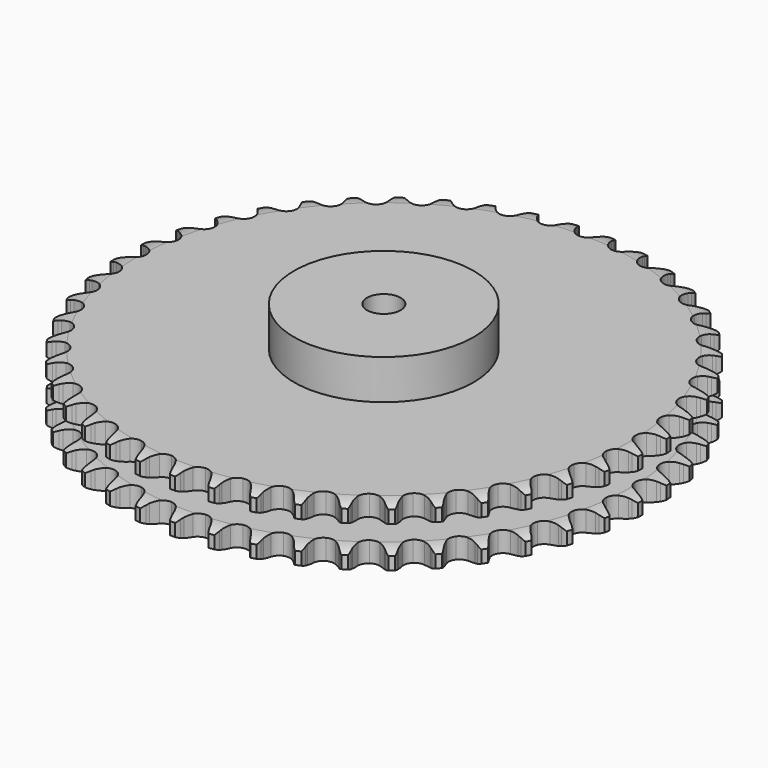
from build123d import *

# Parameters (mm, degrees)
PAD_DEPTH         = 54.6
SKETCH001_R       = 80
PAD001_DEPTH      = 90
SKETCH002_R       = 15
POCKET_DEPTH      = 0.001
POCKET_DEPTH_BACK = 90.001


with BuildPart() as part:
    # Sprocket → Pad (new body)
    with BuildSketch(Plane.XY):
        with BuildLine():
            ThreePointArc((-16.605652, 237.471882), (-13.901263, 234.479356), (-12.064666, 230.888277))
            Line((-12.064666, 230.888277), (-11.136946, 228.279735))
            ThreePointArc((-11.136946, 228.279735), (-9.673835, 224.957184), (-7.742244, 221.883263))
            ThreePointArc((-7.742244, 221.883263), (-4.33825, 219.00157), (0, 217.966719))
            ThreePointArc((0, 217.966719), (4.33825, 219.00157), (7.742244, 221.883263))
            ThreePointArc((7.742244, 221.883263), (9.673835, 224.957184), (11.136946, 228.279735))
            Line((11.136946, 228.279735), (12.064666, 230.888277))
            ThreePointArc((12.064666, 230.888277), (13.901263, 234.479356), (16.605652, 237.471882))
            ThreePointArc((16.605652, 237.471882), (18.867242, 234.1321), (20.186184, 230.320365))
            Line((20.186184, 230.320365), (20.741836, 227.608095))
            ThreePointArc((20.741836, 227.608095), (21.728299, 224.114254), (23.213285, 220.801422))
            ThreePointArc((23.213285, 220.801422), (26.183097, 217.474029), (30.335104, 215.845482))
            ThreePointArc((30.335104, 215.845482), (34.775158, 216.266494), (38.547078, 218.646398))
            Line((38.547078, 218.646398), (42.798961, 224.508169))
            ThreePointArc((42.798961, 224.508169), (43.405624, 225.753053), (44.080691, 226.962211))
            ThreePointArc((44.080691, 226.962211), (46.399196, 230.262737), (49.493745, 232.849762))
            ThreePointArc((49.493745, 232.849762), (51.268518, 229.22773), (52.044132, 225.269529))
            Line((52.044132, 225.269529), (52.216903, 222.506323))
            ThreePointArc((52.216903, 222.506323), (52.707516, 218.909195), (53.716994, 215.421933))
            ThreePointArc((53.716994, 215.421933), (56.19482, 211.713604), (60.07977, 209.523058))
            ThreePointArc((60.07977, 209.523058), (64.535207, 209.322036), (68.601638, 211.15383))
            Line((68.601638, 211.15383), (73.627942, 216.366807))
            ThreePointArc((73.627942, 216.366807), (74.401956, 217.515145), (75.238736, 218.618584))
            ThreePointArc((75.238736, 218.618584), (77.994021, 221.564316), (81.418499, 223.695486))
            ThreePointArc((81.418499, 223.695486), (82.67191, 219.861703), (82.889102, 215.834079))
            Line((82.889102, 215.834079), (82.675626, 213.073719))
            ThreePointArc((82.675626, 213.073719), (82.660842, 209.443317), (83.175162, 205.849501))
            ThreePointArc((83.175162, 205.849501), (85.112775, 201.832414), (88.655052, 199.122506))
            ThreePointArc((88.655052, 199.122506), (93.039152, 198.303364), (97.320945, 199.551393))
            Line((97.320945, 199.551393), (103.02384, 204.014111))
            ThreePointArc((103.02384, 204.014111), (103.950139, 205.043551), (104.932344, 206.019795))
            ThreePointArc((104.932344, 206.019795), (108.070782, 208.553397), (111.758534, 210.187232))
            ThreePointArc((111.758534, 210.187232), (112.466188, 206.216318), (112.120728, 202.197663))
            Line((112.120728, 202.197663), (111.525163, 199.493877))
            ThreePointArc((111.525163, 199.493877), (111.005268, 195.900863), (111.01442, 192.270443))
            ThreePointArc((111.01442, 192.270443), (112.374106, 188.022786), (115.504763, 184.846261))
            ThreePointArc((115.504763, 184.846261), (119.732195, 183.424942), (124.14601, 184.064915))
            Line((124.14601, 184.064915), (130.414495, 187.690512))
            ThreePointArc((130.414495, 187.690512), (131.47505, 188.581019), (132.583563, 189.411065))
            ThreePointArc((132.583563, 189.411065), (136.044067, 191.483224), (139.923316, 192.587923))
            ThreePointArc((139.923316, 192.587923), (140.071439, 188.557167), (139.170053, 184.6257))
            Line((139.170053, 184.6257), (138.203989, 182.031113))
            ThreePointArc((138.203989, 182.031113), (137.189103, 178.545422), (136.692909, 174.949059))
            ThreePointArc((136.692909, 174.949059), (137.448203, 170.553509), (140.106306, 166.972194))
            ThreePointArc((140.106306, 166.972194), (144.094788, 164.976362), (148.554715, 164.995822))
            Line((148.554715, 164.995822), (155.266781, 167.713731))
            ThreePointArc((155.266781, 167.713731), (156.440949, 168.447971), (157.654194, 169.115663))
            ThreePointArc((157.654194, 169.115663), (161.36941, 170.686048), (165.364651, 171.240109))
            ThreePointArc((165.364651, 171.240109), (164.950359, 167.227965), (163.510591, 163.460207))
            Line((163.510591, 163.460207), (162.192832, 161.025321))
            ThreePointArc((162.192832, 161.025321), (160.702708, 157.714798), (159.710827, 154.222491))
            ThreePointArc((159.710827, 154.222491), (159.847027, 149.764601), (161.980839, 145.848203))
            ThreePointArc((161.980839, 145.848203), (165.652739, 143.316705), (170.071971, 142.715274))
            Line((170.071971, 142.715274), (177.096975, 144.472593))
            ThreePointArc((177.096975, 144.472593), (178.361903, 145.036275), (179.656266, 145.528618))
            ThreePointArc((179.656266, 145.528618), (183.55388, 146.566662), (187.58735, 146.5593))
            ThreePointArc((187.58735, 146.5593), (186.618708, 142.643861), (184.668581, 139.113148))
            Line((184.668581, 139.113148), (183.024776, 136.885354))
            ThreePointArc((183.024776, 136.885354), (181.088418, 133.814434), (179.620154, 130.494157))
            ThreePointArc((179.620154, 130.494157), (179.134611, 126.060696), (180.7026, 121.885442))
            ThreePointArc((180.7026, 121.885442), (183.986448, 118.867551), (188.278969, 117.656935))
            Line((188.278969, 117.656935), (195.480178, 118.419461))
            ThreePointArc((195.480178, 118.419461), (196.811245, 118.801613), (198.161532, 119.109024))
            ThreePointArc((198.161532, 119.109024), (202.165683, 119.594522), (206.158875, 119.025882))
            ThreePointArc((206.158875, 119.025882), (204.654736, 115.283356), (202.232207, 112.058409))
            Line((202.232207, 112.058409), (200.294351, 110.08107))
            ThreePointArc((200.294351, 110.08107), (197.949448, 107.309524), (196.033379, 104.225903))
            ThreePointArc((196.033379, 104.225903), (194.935543, 99.903163), (195.907189, 95.550321))
            ThreePointArc((195.907189, 95.550321), (198.739071, 92.104776), (202.821332, 90.308538))
            Line((202.821332, 90.308538), (210.058582, 90.061428))
            ThreePointArc((210.058582, 90.061428), (211.42988, 90.254612), (212.80981, 90.371108))
            ThreePointArc((212.80981, 90.371108), (216.842561, 90.294612), (220.717752, 89.17576))
            ThreePointArc((220.717752, 89.17576), (218.707393, 85.678992), (215.859613, 82.822581))
            Line((215.859613, 82.822581), (213.665424, 81.134183))
            ThreePointArc((213.665424, 81.134183), (210.957616, 78.715957), (208.631038, 75.92901))
            ThreePointArc((208.631038, 75.92901), (206.942277, 71.801128), (207.298668, 67.35542))
            ThreePointArc((207.298668, 67.35542), (209.623463, 63.549286), (213.416008, 61.202388))
            Line((213.416008, 61.202388), (220.548435, 59.950452))
            ThreePointArc((220.548435, 59.950452), (221.933274, 59.950908), (223.315987, 59.874222))
            ThreePointArc((223.315987, 59.874222), (227.298846, 59.237219), (230.980609, 57.589934))
            ThreePointArc((230.980609, 57.589934), (228.503158, 54.406984), (225.285558, 51.974706))
            Line((225.285558, 51.974706), (222.877742, 50.608111))
            ThreePointArc((222.877742, 50.608111), (219.859735, 48.590273), (217.167931, 46.154246))
            ThreePointArc((217.167931, 46.154246), (214.921114, 42.301566), (214.655315, 37.849524))
            ThreePointArc((214.655315, 37.849524), (216.427773, 33.756881), (219.856784, 30.905003))
            Line((219.856784, 30.905003), (226.745563, 28.672609))
            ThreePointArc((226.745563, 28.672609), (228.116988, 28.480328), (229.475573, 28.211952))
            ThreePointArc((229.475573, 28.211952), (233.331016, 27.026841), (236.747692, 24.883185))
            ThreePointArc((236.747692, 24.883185), (233.85137, 22.076006), (230.326575, 20.115202))
            Line((230.326575, 20.115202), (227.751999, 19.09701))
            ThreePointArc((227.751999, 19.09701), (224.482534, 17.518835), (221.477897, 15.481141))
            ThreePointArc((221.477897, 15.481141), (218.716757, 11.978652), (217.83394, 7.606929))
            ThreePointArc((217.83394, 7.606929), (219.019563, 3.307437), (222.018298, 0.006087))
            Line((222.018298, 0.006087), (228.529347, -3.163314))
            ThreePointArc((228.529347, -3.163314), (229.860665, -3.544589), (231.168677, -3.999432))
            ThreePointArc((231.168677, -3.999432), (234.821664, -5.709583), (237.90675, -8.307887))
            ThreePointArc((237.90675, -8.307887), (234.647931, -10.684656), (230.884548, -12.135822))
            Line((230.884548, -12.135822), (228.193322, -12.785793))
            ThreePointArc((228.193322, -12.785793), (224.736036, -13.893588), (221.477048, -15.493286))
            ThreePointArc((221.477048, -15.493286), (218.255327, -18.577413), (216.772675, -22.783726))
            ThreePointArc((216.772675, -22.783726), (217.348386, -27.206382), (219.858478, -30.892947))
            Line((219.858478, -30.892947), (225.865067, -34.937667))
            ThreePointArc((225.865067, -34.937667), (227.130365, -35.500515), (228.362346, -36.132972))
            ThreePointArc((228.362346, -36.132972), (231.741775, -38.334877), (234.435223, -41.337255))
            ThreePointArc((234.435223, -41.337255), (230.877336, -43.237354), (226.948615, -44.150635))
            Line((226.948615, -44.150635), (224.193122, -44.419735))
            ThreePointArc((224.193122, -44.419735), (220.615307, -45.035588), (217.1654, -46.166154))
            ThreePointArc((217.1654, -46.166154), (213.545805, -48.771889), (211.492176, -52.730922))
            ThreePointArc((211.492176, -52.730922), (211.446769, -57.19066), (213.419364, -61.190686))
            Line((213.419364, -61.190686), (218.80458, -66.031997))
            ThreePointArc((218.80458, -66.031997), (219.979231, -66.765463), (221.111201, -67.563224))
            ThreePointArc((221.111201, -67.563224), (224.151297, -70.214026), (226.400682, -73.562041))
            ThreePointArc((226.400682, -73.562041), (222.612977, -74.948486), (218.595386, -75.306107))
            Line((218.595386, -75.306107), (215.829258, -75.189097))
            ThreePointArc((215.829258, -75.189097), (212.200551, -75.301021), (208.626875, -75.94045))
            ThreePointArc((208.626875, -75.94045), (204.679857, -78.017077), (202.095223, -81.65177))
            ThreePointArc((202.095223, -81.65177), (201.429582, -86.061787), (202.826283, -90.297417))
            Line((202.826283, -90.297417), (207.485311, -95.84109))
            ThreePointArc((207.485311, -95.84109), (208.546452, -96.730898), (209.556379, -97.678435))
            ThreePointArc((209.556379, -97.678435), (212.197968, -100.726539), (213.959508, -104.355025))
            ThreePointArc((213.959508, -104.355025), (210.01571, -105.200831), (205.987446, -104.995831))
            Line((205.987446, -104.995831), (203.264523, -104.494989))
            ThreePointArc((203.264523, -104.494989), (199.655554, -104.100805), (196.027664, -104.236652))
            ThreePointArc((196.027664, -104.236652), (191.830048, -105.74375), (188.764716, -108.98336))
            ThreePointArc((188.764716, -108.98336), (187.491798, -113.25782), (188.285421, -117.646611))
            Line((188.285421, -117.646611), (192.127576, -123.784746))
            ThreePointArc((192.127576, -123.784746), (193.054553, -124.813576), (193.92278, -125.892446))
            ThreePointArc((193.92278, -125.892446), (196.114447, -129.278525), (197.353857, -133.116857))
            ThreePointArc((197.353857, -133.116857), (193.330726, -133.405561), (189.370195, -132.64193))
            Line((189.370195, -132.64193), (186.743475, -131.767005))
            ThreePointArc((186.743475, -131.767005), (183.224488, -130.874386), (179.612998, -130.504006))
            ThreePointArc((179.612998, -130.504006), (175.246485, -131.412242), (171.760119, -134.193712))
            ThreePointArc((171.760119, -134.193712), (169.904699, -138.249417), (170.079796, -142.705948))
            Line((170.079796, -142.705948), (173.030297, -149.319072))
            ThreePointArc((173.030297, -149.319072), (173.805067, -150.4669), (174.514695, -151.656104))
            ThreePointArc((174.514695, -151.656104), (176.213782, -155.314251), (176.906937, -159.287721))
            ThreePointArc((176.906937, -159.287721), (172.882779, -159.013704), (169.067069, -157.706306))
            Line((169.067069, -157.706306), (166.587677, -156.474326))
            ThreePointArc((166.587677, -156.474326), (163.227166, -155.100645), (159.70237, -154.231248))
            ThreePointArc((159.70237, -154.231248), (155.251949, -154.522944), (151.412406, -156.792136))
            ThreePointArc((151.412406, -156.792136), (149.010598, -160.550147), (148.563762, -164.987676))
            Line((148.563762, -164.987676), (150.56518, -171.947072))
            ThreePointArc((150.56518, -171.947072), (151.172663, -173.191556), (151.70988, -174.467949))
            ThreePointArc((151.70988, -174.467949), (152.883315, -178.326962), (153.016725, -182.358231))
            ThreePointArc((153.016725, -182.358231), (149.069865, -181.526826), (145.473244, -179.701107))
            Line((145.473244, -179.701107), (143.18944, -178.136052))
            ThreePointArc((143.18944, -178.136052), (140.052812, -176.308047), (136.683316, -174.956554))
            ThreePointArc((136.683316, -174.956554), (132.235611, -174.626032), (128.117623, -176.33878))
            ThreePointArc((128.117623, -176.33878), (125.216175, -179.725951), (124.156103, -184.058107))
            Line((124.156103, -184.058107), (125.169483, -191.228318))
            ThreePointArc((125.169483, -191.228318), (125.597855, -192.545236), (125.952204, -193.883973))
            ThreePointArc((125.952204, -193.883973), (126.577149, -197.868741), (126.148216, -201.879345))
            ThreePointArc((126.148216, -201.879345), (122.355476, -200.506735), (119.047948, -198.198231))
            Line((119.047948, -198.198231), (117.004184, -196.330563))
            ThreePointArc((117.004184, -196.330563), (114.15249, -194.083814), (111.003878, -192.27653))
            ThreePointArc((111.003878, -192.27653), (106.645457, -191.330224), (102.329176, -192.45319))
            ThreePointArc((102.329176, -192.45319), (98.984562, -195.403594), (97.331887, -199.546056))
            Line((97.331887, -199.546056), (97.337504, -206.787522))
            ThreePointArc((97.337504, -206.787522), (97.578428, -208.151242), (97.743012, -209.526266))
            ThreePointArc((97.743012, -209.526266), (97.807303, -213.55923), (96.824375, -217.471108))
            ThreePointArc((96.824375, -217.471108), (93.259577, -215.584008), (90.30552, -212.837651))
            Line((90.30552, -212.837651), (88.541574, -210.703722))
            ThreePointArc((88.541574, -210.703722), (86.03032, -208.081959), (83.163875, -205.854062))
            ThreePointArc((83.163875, -205.854062), (78.97957, -204.31039), (74.549008, -204.821717))
            ThreePointArc((74.549008, -204.821717), (70.826327, -207.277928), (68.613216, -211.150068))
            Line((68.613216, -211.150068), (67.610961, -218.321842))
            ThreePointArc((67.610961, -218.321842), (67.659747, -219.705821), (67.631364, -221.090369))
            ThreePointArc((67.631364, -221.090369), (67.133749, -225.093032), (65.615959, -228.830043))
            ThreePointArc((65.615959, -228.830043), (62.348486, -226.465184), (59.805397, -223.334429))
            Line((59.805397, -223.334429), (58.355603, -220.975774))
            ThreePointArc((58.355603, -220.975774), (56.233667, -218.030026), (53.705181, -215.424878))
            ThreePointArc((53.705181, -215.424878), (49.776435, -213.313887), (45.317829, -213.203623))
            ThreePointArc((45.317829, -213.203623), (41.289538, -215.117833), (38.559067, -218.644284))
            Line((38.559067, -218.644284), (36.568448, -225.606776))
            ThreePointArc((36.568448, -225.606776), (36.424147, -226.984076), (36.203348, -228.351199))
            ThreePointArc((36.203348, -228.351199), (35.153512, -232.245654), (33.130402, -235.735061))
            ThreePointArc((33.130402, -235.735061), (30.223853, -232.938473), (28.141229, -229.484256))
            Line((28.141229, -229.484256), (27.033806, -226.946783))
            ThreePointArc((27.033806, -226.946783), (25.34249, -223.734387), (23.201178, -220.802695))
            ThreePointArc((23.201178, -220.802695), (19.60446, -218.165472), (15.20459, -217.435763))
            ThreePointArc((15.20459, -217.435763), (10.949095, -218.770714), (7.75441, -221.882838))
            Line((7.75441, -221.882838), (4.814172, -228.500531))
            ThreePointArc((4.814172, -228.500531), (4.479592, -229.844344), (4.070675, -231.167433))
            ThreePointArc((4.070675, -231.167433), (2.489053, -234.877879), (0, -238.051764))
            ThreePointArc((0, -238.051764), (-2.489053, -234.877879), (-4.070675, -231.167433))
            Line((-4.070675, -231.167433), (-4.814172, -228.500531))
            ThreePointArc((-4.814172, -228.500531), (-6.04195, -225.084012), (-7.75441, -221.882838))
            ThreePointArc((-7.75441, -221.882838), (-10.949095, -218.770714), (-15.20459, -217.435763))
            ThreePointArc((-15.20459, -217.435763), (-19.60446, -218.165472), (-23.201178, -220.802695))
            Line((-23.201178, -220.802695), (-27.033806, -226.946783))
            ThreePointArc((-27.033806, -226.946783), (-27.552153, -228.230954), (-28.141229, -229.484256))
            ThreePointArc((-28.141229, -229.484256), (-30.223853, -232.938473), (-33.130402, -235.735061))
            ThreePointArc((-33.130402, -235.735061), (-35.153512, -232.245654), (-36.203348, -228.351199))
            Line((-36.203348, -228.351199), (-36.568448, -225.606776))
            ThreePointArc((-36.568448, -225.606776), (-37.30879, -222.052633), (-38.559067, -218.644284))
            ThreePointArc((-38.559067, -218.644284), (-41.289538, -215.117833), (-45.317829, -213.203623))
            ThreePointArc((-45.317829, -213.203623), (-49.776435, -213.313887), (-53.705181, -215.424878))
            Line((-53.705181, -215.424878), (-58.355603, -220.975774))
            ThreePointArc((-58.355603, -220.975774), (-59.047627, -222.175307), (-59.805397, -223.334429))
            ThreePointArc((-59.805397, -223.334429), (-62.348486, -226.465184), (-65.615959, -228.830043))
            ThreePointArc((-65.615959, -228.830043), (-67.133749, -225.093032), (-67.631364, -221.090369))
            Line((-67.631364, -221.090369), (-67.610961, -218.321842))
            ThreePointArc((-67.610961, -218.321842), (-67.849457, -214.699252), (-68.613216, -211.150068))
            ThreePointArc((-68.613216, -211.150068), (-70.826327, -207.277928), (-74.549008, -204.821717))
            ThreePointArc((-74.549008, -204.821717), (-78.97957, -204.31039), (-83.163875, -205.854062))
            Line((-83.163875, -205.854062), (-88.541574, -210.703722))
            ThreePointArc((-88.541574, -210.703722), (-89.393806, -211.795271), (-90.30552, -212.837651))
            ThreePointArc((-90.30552, -212.837651), (-93.259577, -215.584008), (-96.824375, -217.471108))
            ThreePointArc((-96.824375, -217.471108), (-97.807303, -213.55923), (-97.743012, -209.526266))
            Line((-97.743012, -209.526266), (-97.337504, -206.787522))
            ThreePointArc((-97.337504, -206.787522), (-97.069511, -203.166995), (-97.331887, -199.546056))
            ThreePointArc((-97.331887, -199.546056), (-98.984562, -195.403594), (-102.329176, -192.45319))
            ThreePointArc((-102.329176, -192.45319), (-106.645457, -191.330224), (-111.003878, -192.27653))
            Line((-111.003878, -192.27653), (-117.004184, -196.330563))
            ThreePointArc((-117.004184, -196.330563), (-118.000036, -197.292881), (-119.047948, -198.198231))
            ThreePointArc((-119.047948, -198.198231), (-122.355476, -200.506735), (-126.148216, -201.879345))
            ThreePointArc((-126.148216, -201.879345), (-126.577149, -197.868741), (-125.952204, -193.883973))
            Line((-125.952204, -193.883973), (-125.169483, -191.228318))
            ThreePointArc((-125.169483, -191.228318), (-124.400218, -187.680323), (-124.156103, -184.058107))
            ThreePointArc((-124.156103, -184.058107), (-125.216175, -179.725951), (-128.117623, -176.33878))
            ThreePointArc((-128.117623, -176.33878), (-132.235611, -174.626032), (-136.683316, -174.956554))
            Line((-136.683316, -174.956554), (-143.18944, -178.136052))
            ThreePointArc((-143.18944, -178.136052), (-144.30953, -178.950409), (-145.473244, -179.701107))
            ThreePointArc((-145.473244, -179.701107), (-149.069865, -181.526826), (-153.016725, -182.358231))
            ThreePointArc((-153.016725, -182.358231), (-152.883315, -178.326962), (-151.70988, -174.467949))
            Line((-151.70988, -174.467949), (-150.56518, -171.947072))
            ThreePointArc((-150.56518, -171.947072), (-149.309616, -168.540666), (-148.563762, -164.987676))
            ThreePointArc((-148.563762, -164.987676), (-149.010598, -160.550147), (-151.412406, -156.792136))
            ThreePointArc((-151.412406, -156.792136), (-155.251949, -154.522944), (-159.70237, -154.231248))
            Line((-159.70237, -154.231248), (-166.587677, -156.474326))
            ThreePointArc((-166.587677, -156.474326), (-167.810203, -157.124871), (-169.067069, -157.706306))
            ThreePointArc((-169.067069, -157.706306), (-172.882779, -159.013704), (-176.906937, -159.287721))
            ThreePointArc((-176.906937, -159.287721), (-176.213782, -155.314251), (-174.514695, -151.656104))
            Line((-174.514695, -151.656104), (-173.030297, -149.319072))
            ThreePointArc((-173.030297, -149.319072), (-171.312873, -146.120558), (-170.079796, -142.705948))
            ThreePointArc((-170.079796, -142.705948), (-169.904699, -138.249417), (-171.760119, -134.193712))
            ThreePointArc((-171.760119, -134.193712), (-175.246485, -131.412242), (-179.612998, -130.504006))
            Line((-179.612998, -130.504006), (-186.743475, -131.767005))
            ThreePointArc((-186.743475, -131.767005), (-188.044641, -132.241076), (-189.370195, -132.64193))
            ThreePointArc((-189.370195, -132.64193), (-193.330726, -133.405561), (-197.353857, -133.116857))
            ThreePointArc((-197.353857, -133.116857), (-196.114447, -129.278525), (-193.92278, -125.892446))
            Line((-193.92278, -125.892446), (-192.127576, -123.784746))
            ThreePointArc((-192.127576, -123.784746), (-189.981719, -120.856379), (-188.285421, -117.646611))
            ThreePointArc((-188.285421, -117.646611), (-187.491798, -113.25782), (-188.764716, -108.98336))
            ThreePointArc((-188.764716, -108.98336), (-191.830048, -105.74375), (-196.027664, -104.236652))
            Line((-196.027664, -104.236652), (-203.264523, -104.494989))
            ThreePointArc((-203.264523, -104.494989), (-204.619004, -104.783359), (-205.987446, -104.995831))
            ThreePointArc((-205.987446, -104.995831), (-210.01571, -105.200831), (-213.959508, -104.355025))
            ThreePointArc((-213.959508, -104.355025), (-212.197968, -100.726539), (-209.556379, -97.678435))
            Line((-209.556379, -97.678435), (-207.485311, -95.84109))
            ThreePointArc((-207.485311, -95.84109), (-204.952787, -93.239868), (-202.826283, -90.297417))
            ThreePointArc((-202.826283, -90.297417), (-201.429582, -86.061787), (-202.095223, -81.65177))
            ThreePointArc((-202.095223, -81.65177), (-204.679857, -78.017077), (-208.626875, -75.94045))
            Line((-208.626875, -75.94045), (-215.829258, -75.189097))
            ThreePointArc((-215.829258, -75.189097), (-217.210691, -75.286154), (-218.595386, -75.306107))
            ThreePointArc((-218.595386, -75.306107), (-222.612977, -74.948486), (-226.400682, -73.562041))
            ThreePointArc((-226.400682, -73.562041), (-224.151297, -70.214026), (-221.111201, -67.563224))
            Line((-221.111201, -67.563224), (-218.80458, -66.031997))
            ThreePointArc((-218.80458, -66.031997), (-215.934682, -63.808549), (-213.419364, -61.190686))
            ThreePointArc((-213.419364, -61.190686), (-211.446769, -57.19066), (-211.492176, -52.730922))
            ThreePointArc((-211.492176, -52.730922), (-213.545805, -48.771889), (-217.1654, -46.166154))
            Line((-217.1654, -46.166154), (-224.193122, -44.419735))
            ThreePointArc((-224.193122, -44.419735), (-225.574619, -44.323588), (-226.948615, -44.150635))
            ThreePointArc((-226.948615, -44.150635), (-230.877336, -43.237354), (-234.435223, -41.337255))
            ThreePointArc((-234.435223, -41.337255), (-231.741775, -38.334877), (-228.362346, -36.132972))
            Line((-228.362346, -36.132972), (-225.865067, -34.937667))
            ThreePointArc((-225.865067, -34.937667), (-222.713654, -33.13527), (-219.858478, -30.892947))
            ThreePointArc((-219.858478, -30.892947), (-217.348386, -27.206382), (-216.772675, -22.783726))
            ThreePointArc((-216.772675, -22.783726), (-218.255327, -18.577413), (-221.477048, -15.493286))
            Line((-221.477048, -15.493286), (-228.193322, -12.785793))
            ThreePointArc((-228.193322, -12.785793), (-229.547994, -12.498315), (-230.884548, -12.135822))
            ThreePointArc((-230.884548, -12.135822), (-234.647931, -10.684656), (-237.90675, -8.307887))
            ThreePointArc((-237.90675, -8.307887), (-234.821664, -5.709583), (-231.168677, -3.999432))
            Line((-231.168677, -3.999432), (-228.529347, -3.163314))
            ThreePointArc((-228.529347, -3.163314), (-225.157758, -1.81705), (-222.018298, 0.006087))
            ThreePointArc((-222.018298, 0.006087), (-219.019563, 3.307437), (-217.83394, 7.606929))
            ThreePointArc((-217.83394, 7.606929), (-218.716757, 11.978652), (-221.477897, 15.481141))
            Line((-221.477897, 15.481141), (-227.751999, 19.09701))
            ThreePointArc((-227.751999, 19.09701), (-229.053478, 19.570224), (-230.326575, 20.115202))
            ThreePointArc((-230.326575, 20.115202), (-233.85137, 22.076006), (-236.747692, 24.883185))
            ThreePointArc((-236.747692, 24.883185), (-233.331016, 27.026841), (-229.475573, 28.211952))
            Line((-229.475573, 28.211952), (-226.745563, 28.672609))
            ThreePointArc((-226.745563, 28.672609), (-223.219423, 29.536537), (-219.856784, 30.905003))
            ThreePointArc((-219.856784, 30.905003), (-216.427773, 33.756881), (-214.655315, 37.849524))
            ThreePointArc((-214.655315, 37.849524), (-214.921114, 42.301566), (-217.167931, 46.154246))
            Line((-217.167931, 46.154246), (-222.877742, 50.608111))
            ThreePointArc((-222.877742, 50.608111), (-224.100696, 51.257851), (-225.285558, 51.974706))
            ThreePointArc((-225.285558, 51.974706), (-228.503158, 54.406984), (-230.980609, 57.589934))
            ThreePointArc((-230.980609, 57.589934), (-227.298846, 59.237219), (-223.315987, 59.874222))
            Line((-223.315987, 59.874222), (-220.548435, 59.950452))
            ThreePointArc((-220.548435, 59.950452), (-216.936375, 60.315229), (-213.416008, 61.202388))
            ThreePointArc((-213.416008, 61.202388), (-209.623463, 63.549286), (-207.298668, 67.35542))
            ThreePointArc((-207.298668, 67.35542), (-206.942277, 71.801128), (-208.631038, 75.92901))
            Line((-208.631038, 75.92901), (-213.665424, 81.134183))
            ThreePointArc((-213.665424, 81.134183), (-214.78605, 81.947801), (-215.859613, 82.822581))
            ThreePointArc((-215.859613, 82.822581), (-218.707393, 85.678992), (-220.717752, 89.17576))
            ThreePointArc((-220.717752, 89.17576), (-216.842561, 90.294612), (-212.80981, 90.371108))
            Line((-212.80981, 90.371108), (-210.058582, 90.061428))
            ThreePointArc((-210.058582, 90.061428), (-206.430908, 89.919953), (-202.821332, 90.308538))
            ThreePointArc((-202.821332, 90.308538), (-198.739071, 92.104776), (-195.907189, 95.550321))
            ThreePointArc((-195.907189, 95.550321), (-194.935543, 99.903163), (-196.033379, 104.225903))
            Line((-196.033379, 104.225903), (-200.294351, 110.08107))
            ThreePointArc((-200.294351, 110.08107), (-201.290837, 111.042732), (-202.232207, 112.058409))
            ThreePointArc((-202.232207, 112.058409), (-204.654736, 115.283356), (-206.158875, 119.025882))
            ThreePointArc((-206.158875, 119.025882), (-202.165683, 119.594522), (-198.161532, 119.109024))
            Line((-198.161532, 119.109024), (-195.480178, 118.419461))
            ThreePointArc((-195.480178, 118.419461), (-191.907498, 117.774488), (-188.278969, 117.656935))
            ThreePointArc((-188.278969, 117.656935), (-183.986448, 118.867551), (-180.7026, 121.885442))
            ThreePointArc((-180.7026, 121.885442), (-179.134611, 126.060696), (-179.620154, 130.494157))
            Line((-179.620154, 130.494157), (-183.024776, 136.885354))
            ThreePointArc((-183.024776, 136.885354), (-183.877727, 137.976341), (-184.668581, 139.113148))
            ThreePointArc((-184.668581, 139.113148), (-186.618708, 142.643861), (-187.58735, 146.5593))
            ThreePointArc((-187.58735, 146.5593), (-183.55388, 146.566662), (-179.656266, 145.528618))
            Line((-179.656266, 145.528618), (-177.096975, 144.472593))
            ThreePointArc((-177.096975, 144.472593), (-173.648826, 143.336677), (-170.071971, 142.715274))
            ThreePointArc((-170.071971, 142.715274), (-165.652739, 143.316705), (-161.980839, 145.848203))
            ThreePointArc((-161.980839, 145.848203), (-159.847027, 149.764601), (-159.710827, 154.222491))
            Line((-159.710827, 154.222491), (-162.192832, 161.025321))
            ThreePointArc((-162.192832, 161.025321), (-162.885646, 162.224399), (-163.510591, 163.460207))
            ThreePointArc((-163.510591, 163.460207), (-164.950359, 167.227965), (-165.364651, 171.240109))
            ThreePointArc((-165.364651, 171.240109), (-161.36941, 170.686048), (-157.654194, 169.115663))
            Line((-157.654194, 169.115663), (-155.266781, 167.713731))
            ThreePointArc((-155.266781, 167.713731), (-152.010278, 166.108979), (-148.554715, 164.995822))
            ThreePointArc((-148.554715, 164.995822), (-144.094788, 164.976362), (-140.106306, 166.972194))
            ThreePointArc((-140.106306, 166.972194), (-137.448203, 170.553509), (-136.692909, 174.949059))
            Line((-136.692909, 174.949059), (-138.203989, 182.031113))
            ThreePointArc((-138.203989, 182.031113), (-138.723182, 183.314942), (-139.170053, 184.6257))
            ThreePointArc((-139.170053, 184.6257), (-140.071439, 188.557167), (-139.923316, 192.587923))
            ThreePointArc((-139.923316, 192.587923), (-136.044067, 191.483224), (-132.583563, 189.411065))
            Line((-132.583563, 189.411065), (-130.414495, 187.690512))
            ThreePointArc((-130.414495, 187.690512), (-127.413023, 185.64816), (-124.14601, 184.064915))
            ThreePointArc((-124.14601, 184.064915), (-119.732195, 183.424942), (-115.504763, 184.846261))
            ThreePointArc((-115.504763, 184.846261), (-112.374106, 188.022786), (-111.01442, 192.270443))
            Line((-111.01442, 192.270443), (-111.525163, 199.493877))
            ThreePointArc((-111.525163, 199.493877), (-111.860628, 200.837469), (-112.120728, 202.197663))
            ThreePointArc((-112.120728, 202.197663), (-112.466188, 206.216318), (-111.758534, 210.187232))
            ThreePointArc((-111.758534, 210.187232), (-108.070782, 208.553397), (-104.932344, 206.019795))
            Line((-104.932344, 206.019795), (-103.02384, 204.014111))
            ThreePointArc((-103.02384, 204.014111), (-100.335818, 201.57391), (-97.320945, 199.551393))
            ThreePointArc((-97.320945, 199.551393), (-93.039152, 198.303364), (-88.655052, 199.122506))
            ThreePointArc((-88.655052, 199.122506), (-85.112775, 201.832414), (-83.175162, 205.849501))
            Line((-83.175162, 205.849501), (-82.675626, 213.073719))
            ThreePointArc((-82.675626, 213.073719), (-82.820835, 214.450923), (-82.889102, 215.834079))
            ThreePointArc((-82.889102, 215.834079), (-82.67191, 219.861703), (-81.418499, 223.695486))
            ThreePointArc((-81.418499, 223.695486), (-77.994021, 221.564316), (-75.238736, 218.618584))
            Line((-75.238736, 218.618584), (-73.627942, 216.366807))
            ThreePointArc((-73.627942, 216.366807), (-71.305691, 213.576254), (-68.601638, 211.15383))
            ThreePointArc((-68.601638, 211.15383), (-64.535207, 209.322036), (-60.07977, 209.523058))
            ThreePointArc((-60.07977, 209.523058), (-56.19482, 211.713604), (-53.716994, 215.421933))
            Line((-53.716994, 215.421933), (-52.216903, 222.506323))
            ThreePointArc((-52.216903, 222.506323), (-52.169028, 223.890334), (-52.044132, 225.269529))
            ThreePointArc((-52.044132, 225.269529), (-51.268518, 229.22773), (-49.493745, 232.849762))
            ThreePointArc((-49.493745, 232.849762), (-46.399196, 230.262737), (-44.080691, 226.962211))
            Line((-44.080691, 226.962211), (-42.798961, 224.508169))
            ThreePointArc((-42.798961, 224.508169), (-40.887679, 221.421579), (-38.547078, 218.646398))
            ThreePointArc((-38.547078, 218.646398), (-34.775158, 216.266494), (-30.335104, 215.845482))
            ThreePointArc((-30.335104, 215.845482), (-26.183097, 217.474029), (-23.213285, 220.801422))
            Line((-23.213285, 220.801422), (-20.741836, 227.608095))
            ThreePointArc((-20.741836, 227.608095), (-20.501811, 228.971974), (-20.186184, 230.320365))
            ThreePointArc((-20.186184, 230.320365), (-18.867242, 234.1321), (-16.605652, 237.471882))
        make_face()
    extrude(amount=PAD_DEPTH)

    # Sketch → Groove (revolve, cut)
    with BuildSketch(Plane.XZ):
        with BuildLine():
            ThreePointArc((220.598368, 0), (228.081683, 0.887302), (235.15, 3.5))
            Line((235.15, 3.5), (235.15, 14.7))
            ThreePointArc((235.15, 14.7), (228.081683, 17.312698), (220.598368, 18.2))
            Line((80, 18.2), (220.598368, 18.2))
            Line((80, 36.4), (80, 18.2))
            Line((220.598368, 36.4), (80, 36.4))
            ThreePointArc((220.598368, 36.4), (228.081683, 37.287302), (235.15, 39.9))
            Line((235.15, 39.9), (235.15, 51.1))
            ThreePointArc((235.15, 51.1), (228.081683, 53.712698), (220.598368, 54.6))
            Line((220.598368, 54.6), (245.15, 54.6))
            Line((245.15, 54.6), (245.15, 0))
            Line((220.598368, 0), (245.15, 0))
        make_face()
    revolve(axis=Axis((0, 0, 0), (0, 0, 1)), mode=Mode.SUBTRACT)

    # Sketch001 → Pad001 (join)
    with BuildSketch(Plane.XY):
        Circle(SKETCH001_R)
    extrude(amount=PAD001_DEPTH)

    # Sketch002 → Pocket (cut, two sides)
    with BuildSketch(Plane.XY) as pocket_sk:
        Circle(SKETCH002_R)
    extrude(amount=-POCKET_DEPTH, mode=Mode.SUBTRACT)
    extrude(pocket_sk.sketch, amount=POCKET_DEPTH_BACK, mode=Mode.SUBTRACT)


solid = part.part
